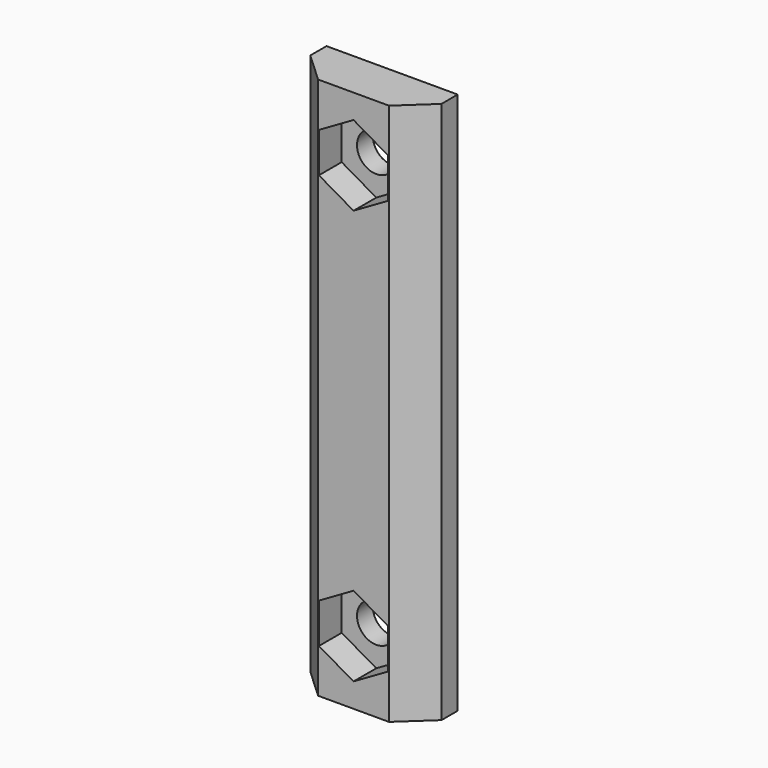
from build123d import *

# Parameters (mm, degrees)
PAD_DEPTH       = 45
SKETCH001_R     = 1.6
POCKET_DEPTH    = 4.001
POCKET001_DEPTH = 2.36


with BuildPart() as part:
    # Sketch → Pad (new body)
    with BuildSketch(Plane.XY):
        Polygon((0, 0), (-5.44, 0), (-5.44, -1.68), (-2.94, -4), (0, -4), (2.94, -4), (5.44, -1.68), (5.44, 0), align=None)
    extrude(amount=PAD_DEPTH)

    # Sketch001 (on Face5 of Pad) → Pocket (cut, through all)
    with BuildSketch(Plane.XZ.offset(4)):
        with Locations((0, 39.686009)):
            Circle(SKETCH001_R)
        with Locations((0, 5.313991)):
            Circle(SKETCH001_R)
    extrude(amount=-POCKET_DEPTH, mode=Mode.SUBTRACT)

    # Sketch002 (on Face10 of Pocket) → Pocket001 (cut)
    with BuildSketch(Plane.XZ.offset(4)):
        Polygon((2.87, 41.343005), (0, 43), (-2.87, 41.343005), (-2.87, 38.029014), (0, 36.372019), (2.87, 38.029014), align=None)
        Polygon((2.87, 6.970986), (0, 8.627981), (-2.87, 6.970986), (-2.87, 3.656995), (0, 2), (2.87, 3.656995), align=None)
    extrude(amount=-POCKET001_DEPTH, mode=Mode.SUBTRACT)


solid = part.part
